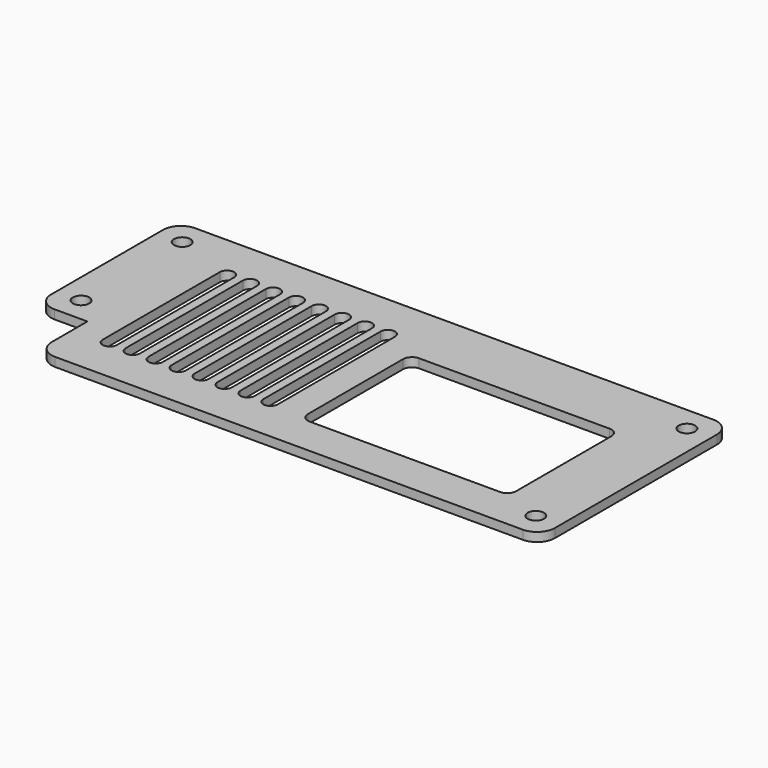
from build123d import *

# Parameters (mm, degrees)
PAD_DEPTH           = 1.5
POCKET_DEPTH        = 5
POCKET001_DEPTH     = 5
LINEARPATTERN_COUNT = 8
LINEARPATTERN_PITCH = 3.857143
SKETCH003_R         = 1.375
POCKET002_DEPTH     = 5


with BuildPart() as part:
    # Sketch → Pad (new body)
    with BuildSketch(Plane.XY):
        with BuildLine():
            Line((-43.5, 20), (43.5, 20))
            ThreePointArc((46.5, 17), (45.62132, 19.12132), (43.5, 20))
            Line((46.5, 17), (46.5, -17))
            ThreePointArc((43.5, -20), (45.62132, -19.12132), (46.5, -17))
            Line((43.5, -20), (-35, -20))
            ThreePointArc((-38, -17), (-37.12132, -19.12132), (-35, -20))
            Line((-38, -9.5), (-38, -17))
            Line((-43.5, -9.5), (-38, -9.5))
            ThreePointArc((-46.5, -6.5), (-45.62132, -8.62132), (-43.5, -9.5))
            Line((-46.5, 17), (-46.5, -6.5))
            ThreePointArc((-43.5, 20), (-45.62132, 19.12132), (-46.5, 17))
        make_face()
    extrude(amount=PAD_DEPTH)

    # Sketch001 (on Face13 of Pad) → Pocket (cut)
    with BuildSketch(Plane.XY.offset(1.5)):
        with BuildLine():
            Line((2.5, 9.5), (34.5, 9.5))
            ThreePointArc((36, 8), (35.56066, 9.06066), (34.5, 9.5))
            Line((36, 8), (36, -12))
            ThreePointArc((34.5, -13.5), (35.56066, -13.06066), (36, -12))
            Line((34.5, -13.5), (2.5, -13.5))
            ThreePointArc((1, -12), (1.43934, -13.06066), (2.5, -13.5))
            Line((1, -12), (1, 8))
            ThreePointArc((2.5, 9.5), (1.43934, 9.06066), (1, 8))
        make_face()
    extrude(amount=-POCKET_DEPTH, mode=Mode.SUBTRACT)

    # Sketch002 (on Face5 of Pocket) → Pocket001 (cut)
    with BuildSketch(Plane.XY.offset(1.5)):
        with BuildLine():
            ThreePointArc((-30.8, 12.3), (-32, 13.5), (-33.2, 12.3))
            Line((-33.2, 12.3), (-33.2, -12.3))
            ThreePointArc((-33.2, -12.3), (-32, -13.5), (-30.8, -12.3))
            Line((-30.8, -12.3), (-30.8, 12.3))
        make_face()
    pocket001 = extrude(amount=-POCKET001_DEPTH, mode=Mode.SUBTRACT)

    # LinearPattern: Pocket001 ×8
    with Locations(*[(i * LINEARPATTERN_PITCH, 0, 0) for i in range(1, LINEARPATTERN_COUNT)]):
        add(pocket001, mode=Mode.SUBTRACT)

    # Sketch003 (on Face5 of LinearPattern) → Pocket002 (cut)
    with BuildSketch(Plane.XY.offset(1.5)):
        with Locations((42.375, 15.86)):
            Circle(SKETCH003_R)
        with Locations((-42.375, 15.86)):
            Circle(SKETCH003_R)
        with Locations((42.375, -15.86)):
            Circle(SKETCH003_R)
        with Locations((-42.375, -5.36)):
            Circle(SKETCH003_R)
    extrude(amount=-POCKET002_DEPTH, mode=Mode.SUBTRACT)


solid = part.part
